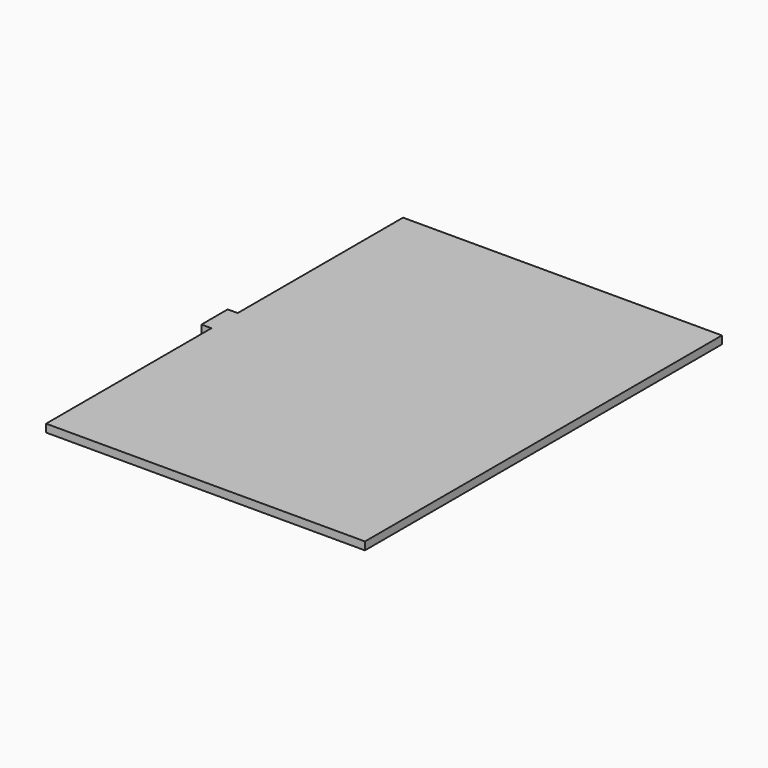
from build123d import *

# Parameters (mm, degrees)
F0_W     = 61.722
F0_H     = 86.36
F1_DEPTH = 1.524
F2_W     = 6.35
F2_H     = 3.048
F3_DEPTH = 1.9304
F4_W     = 1.9304
F4_H     = 6.35
F5_DEPTH = 4.064


with BuildPart() as f1:
    # F0 (on Top) → F1 (new body)
    with BuildSketch(Plane.XY):
        Rectangle(F0_W, F0_H)
    extrude(amount=F1_DEPTH)

    # F2 (on face) → F3 (join)
    with BuildSketch(Plane(origin=(-30.861, 0, 0), x_dir=(0, -1, 0), z_dir=(-1, 0, 0))):
        Rectangle(F2_W, F2_H)
    extrude(amount=F3_DEPTH)

    # F4 (on face) → F5 (join)
    with BuildSketch(Plane(origin=(0, 0, -1.524), x_dir=(1, 0, 0), z_dir=(0, 0, -1))):
        with Locations((-31.8262, 0)):
            Rectangle(F4_W, F4_H)
    extrude(amount=F5_DEPTH)


solid = f1.part
